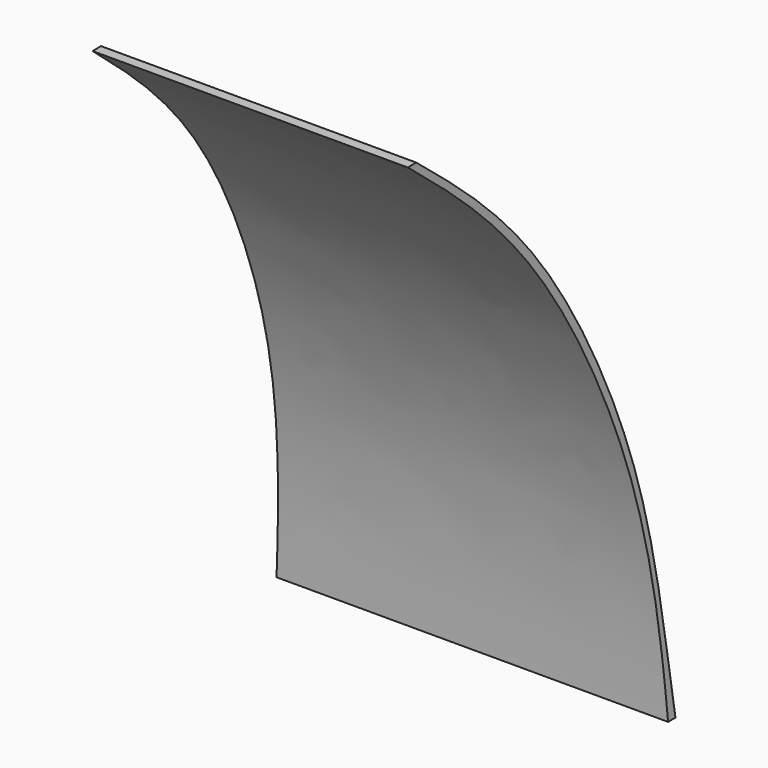
from build123d import *

# Parameters (mm, degrees)
F1_DEPTH = 120
F4_DEPTH = 150


with BuildPart() as f1:
    # F0 (on Right) → F1 (new body)
    with BuildSketch(Plane.YZ):
        with BuildLine():
            add(Edge.make_bspline(
                [(0, 0), (-0.8248705769, 22.3058823974), (-4.0879868861, 67.3348078908), (-37.4968088314, 139.8682303723), (-69.2246799773, 167.2320171194), (-84.9209874868, 180)],
                knots=[0, 0, 0, 0, 0.33072927, 0.6844860396, 1, 1, 1, 1], degree=3))
            Line((0, 0), (2.8056783602, 0))
            add(Edge.make_bspline(
                [(2.8056783602, 0), (0.4970972667, 22.5263075512), (-1.8330327824, 67.5222668889), (-35.0548319825, 140.921088041), (-66.1270366794, 167.363100312), (-81.6893726587, 180.0221055746)],
                knots=[0, 0, 0, 0, 0.3324534186, 0.6871790225, 1, 1, 1, 1], degree=3))
            Line((-81.6893726587, 180.0221055746), (-84.9209874868, 180))
        make_face()
    extrude(amount=F1_DEPTH)

    # F3 (on offset) → F4 (cut)
    with BuildSketch(Plane.XZ.offset(-10)):
        Polygon((105.8641725325, 216.2395015438), (120.4934939742, -9.4653544948), (140, -5.6541487575), (140, 216.2395015438), align=None)
        Polygon((-20, -5.6541487575), (-0.4934939742, -9.4653544948), (14.1358274675, 216.2395015438), (-20, 216.2395015438), align=None)
    extrude(amount=F4_DEPTH, mode=Mode.SUBTRACT)


solid = f1.part
